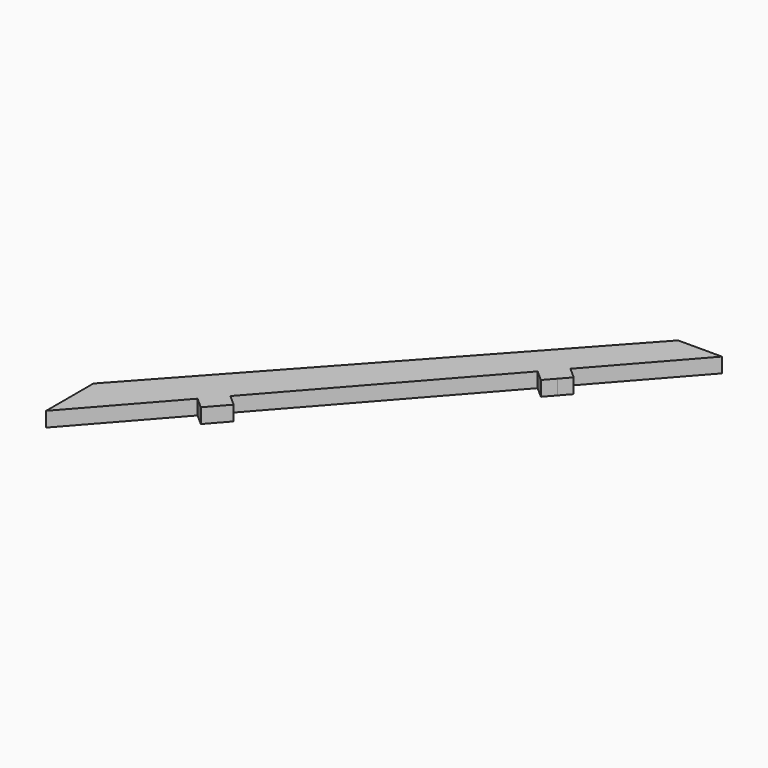
from build123d import *

# Parameters (mm, degrees)
F1_DEPTH = 3.175
F3_DEPTH = 25.4


with BuildPart() as f1:
    # F0 (on Top) → F1 (new body)
    with BuildSketch(Plane.XY):
        Polygon((0, 86.17966), (0, 0), (17.077309, 19.313867), (19.455864, 17.210751), (23.15735, 21.397007), (20.778795, 23.500124), (55.421336, 62.679684), (57.799891, 60.576567), (59.650634, 62.669696), (61.501377, 64.762824), (59.122822, 66.865941), (76.2, 86.17966), align=None)
    extrude(amount=F1_DEPTH)

    # F2 (on Top) → F3 (cut)
    with BuildSketch(Plane.XY):
        Polygon((0, 91.078676), (0, 12.7), (71.233496, 91.078676), align=None)
    extrude(amount=F3_DEPTH, mode=Mode.SUBTRACT)


solid = f1.part
